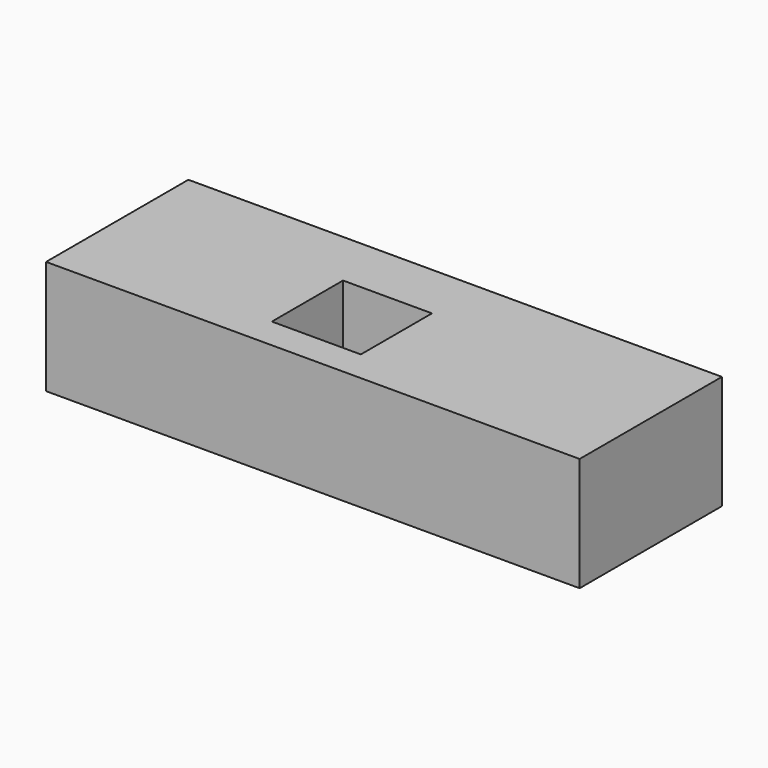
from build123d import *

# Parameters (mm, degrees)
F0_W      = 76.2
F0_H      = 25.4
F1_DEPTH  = 1.016
F1_FACE_W = 76.2
F1_FACE_H = 25.4
F2_DEPTH  = 15.24
F3_W      = 12.7
F3_H      = 12.7
F4_DEPTH  = 10.16


with BuildPart() as f1:
    # F0 (on Top) → F1 (new body)
    with BuildSketch(Plane.XY):
        with Locations((-38.1, 12.7)):
            Rectangle(F0_W, F0_H)
    extrude(amount=F1_DEPTH)

    # F1_face (on face) → F2 (join)
    with BuildSketch(Plane(origin=(-38.1, 12.7, 1.016), x_dir=(1, 0, 0), z_dir=(0, 0, 1))):
        Rectangle(F1_FACE_W, F1_FACE_H)
    extrude(amount=F2_DEPTH)

    # F3 (on face) → F4 (cut)
    with BuildSketch(Plane.XY.offset(16.256)):
        with Locations((-41.178353, 10.822336)):
            Rectangle(F3_W, F3_H)
    extrude(amount=-F4_DEPTH, mode=Mode.SUBTRACT)


solid = f1.part
